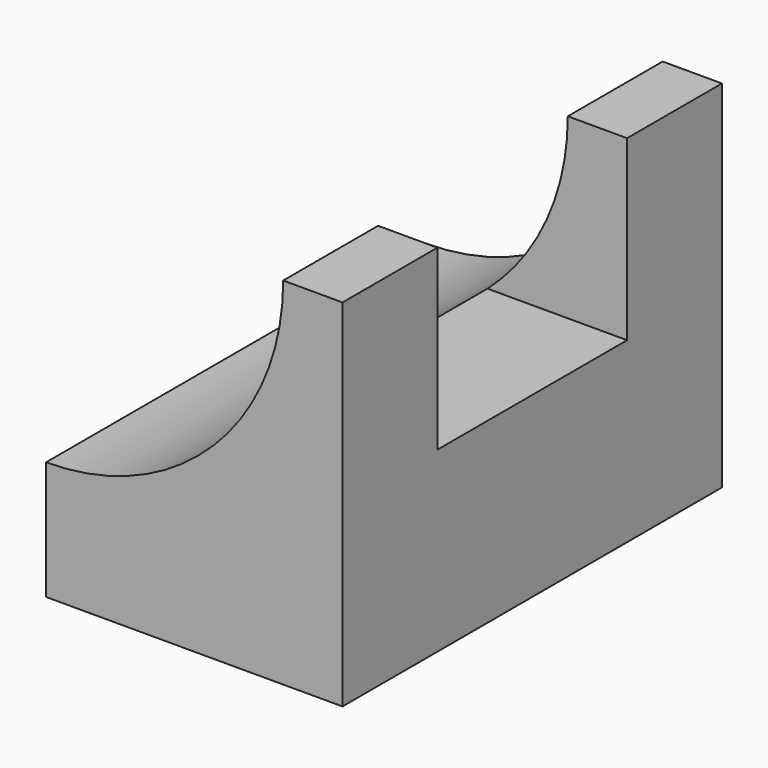
from build123d import *

# Parameters (mm, degrees)
F1_DEPTH = 50.8
F2_W     = 25.4
F2_H     = 19.05
F3_DEPTH = 25.4


with BuildPart() as f1:
    # F0 (on Front) → F1 (new body)
    with BuildSketch(Plane.XZ):
        with BuildLine():
            Line((-31.75, 0), (0, 0))
            Line((0, 0), (0, 38.1))
            Line((0, 38.1), (-6.35, 38.1))
            ThreePointArc((-6.35, 38.1), (-13.789488, 20.139488), (-31.75, 12.7))
            Line((-31.75, 12.7), (-31.75, 0))
        make_face()
    extrude(amount=F1_DEPTH)

    # F2 (on face) → F3 (cut)
    with BuildSketch(Plane.YZ):
        with Locations((-25.4, 28.575)):
            Rectangle(F2_W, F2_H)
    extrude(amount=-F3_DEPTH, mode=Mode.SUBTRACT)


solid = f1.part
